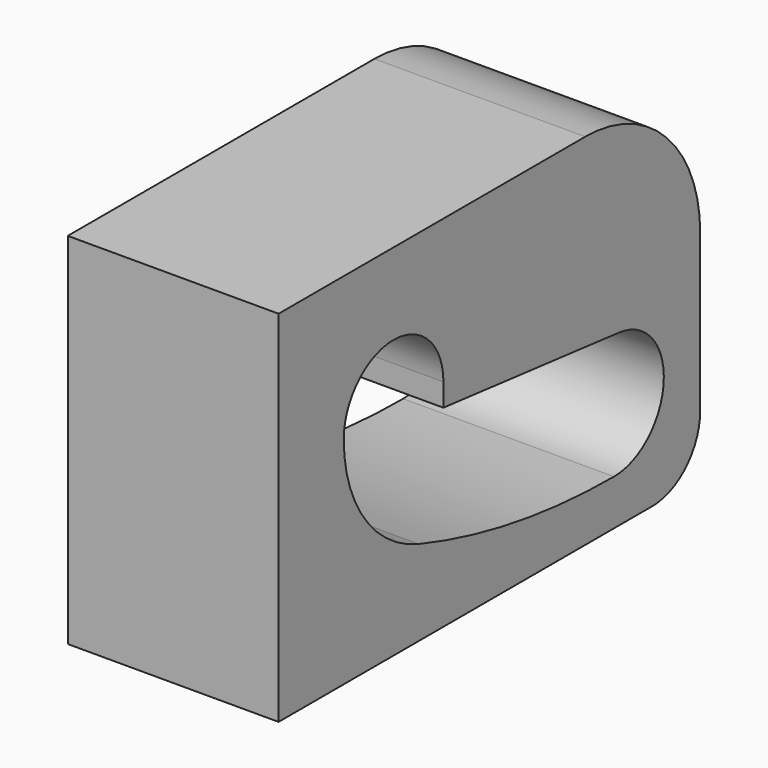
from build123d import *

# Parameters (mm, degrees)
F1_DEPTH = 5.588


with BuildPart() as f1:
    # F0 (on Right) → F1 (new body, symmetric)
    with BuildSketch(Plane.YZ):
        with BuildLine():
            Line((0, 19.05), (0, 0))
            Line((0, 0), (24.765, 0))
            ThreePointArc((24.765, 0), (27.010064, 0.929936), (27.94, 3.175))
            Line((27.94, 3.175), (27.94, 11.43))
            ThreePointArc((27.94, 11.43), (25.708154, 16.818154), (20.32, 19.05))
            Line((20.32, 19.05), (0, 19.05))
        make_face()
        with BuildLine():
            ThreePointArc((4.318, 11.43), (7.62, 14.732), (10.922, 11.43))
            Line((10.922, 11.43), (10.922, 10.223182))
            Line((10.922, 10.223182), (22.570153, 8.998911))
            ThreePointArc((22.570153, 8.998911), (25.522475, 5.542187), (22.225, 2.413))
            ThreePointArc((22.225, 2.413), (15.665423, 2.945874), (9.277866, 4.530522))
            ThreePointArc((9.277866, 4.530522), (5.686641, 7.181381), (4.318, 11.43))
        make_face(mode=Mode.SUBTRACT)
    extrude(amount=F1_DEPTH, both=True)


solid = f1.part
